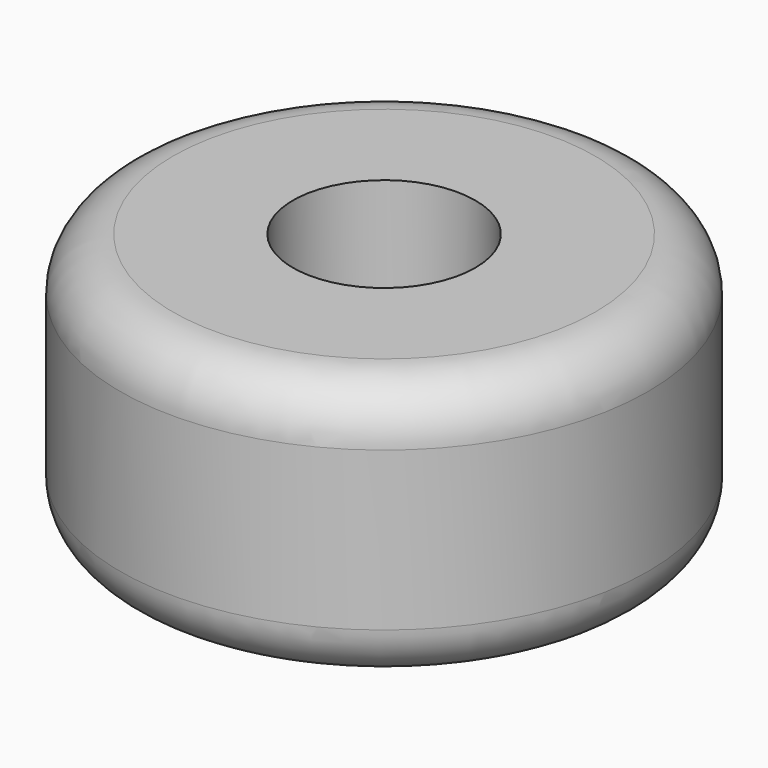
from build123d import *

# Parameters (mm, degrees)
F0_R     = 25.4
F1_DEPTH = 25.4
F2_R     = 8.779275
F3_DEPTH = 25.4
F4_R     = 5.08
F5_R     = 5.08


with BuildPart() as f1:
    # F0 (on Top) → F1 (new body)
    with BuildSketch(Plane.XY):
        Circle(F0_R)
    extrude(amount=F1_DEPTH)

    # F2 (on face) → F3 (cut)
    with BuildSketch(Plane.XY.offset(25.4)):
        Circle(F2_R)
    extrude(amount=-F3_DEPTH, mode=Mode.SUBTRACT)

    # F4
    f4_edges = [f1.edges().sort_by_distance(p)[0] for p in [
        (-25.4, 0, 25.4),
    ]]
    fillet(f4_edges, radius=F4_R)

    # F5
    f5_edges = [f1.edges().sort_by_distance(p)[0] for p in [
        (-25.4, 0, 0),
    ]]
    fillet(f5_edges, radius=F5_R)


solid = f1.part
